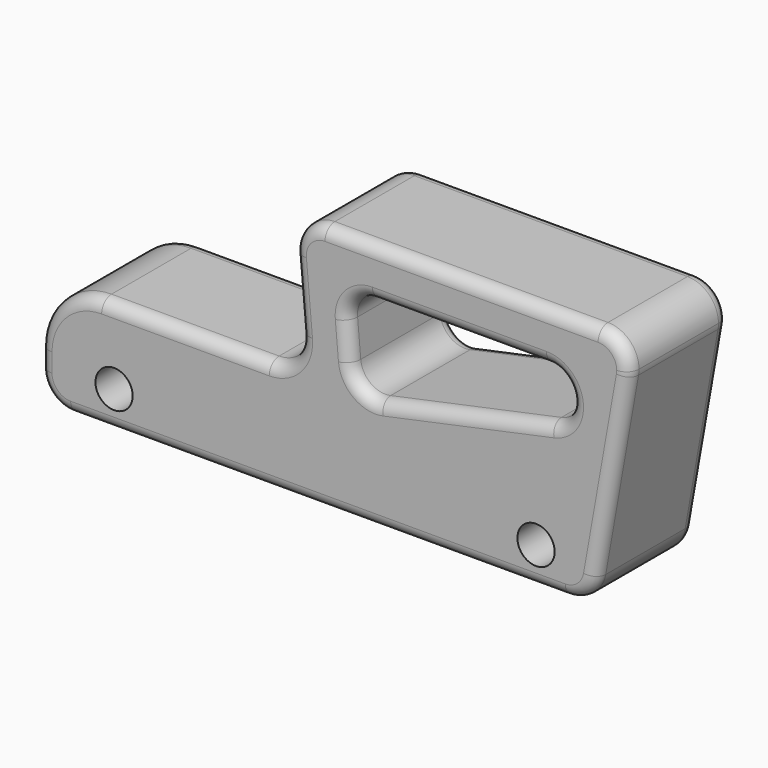
from build123d import *

# Parameters (mm, degrees)
F1_DEPTH = 20
F2_R     = 2
F4_D     = 6


with BuildPart() as f1:
    # F0 (on Front) → F1 (new body)
    with BuildSketch(Plane.XZ):
        with BuildLine():
            ThreePointArc((0, 5), (1.4644660941, 1.4644660941), (5, 0))
            Line((5, 0), (84.7101905787, 0))
            ThreePointArc((84.7101905787, 0), (87.9241286272, 1.1697777844), (89.6342293438, 4.1317591117))
            Line((89.6342293438, 4.1317591117), (94.9240387651, 34.1317591117))
            ThreePointArc((94.9240387651, 34.1317591117), (94.9809734905, 34.5642212863), (95, 35))
            ThreePointArc((95, 35), (93.5355339059, 38.5355339059), (90, 40))
            Line((90, 40), (45.9883344131, 40))
            ThreePointArc((45.9883344131, 40), (42.3019477291, 38.3779510381), (41.0073609227, 34.5642212863))
            Line((41.0073609227, 34.5642212863), (41.9809734905, 23.4357787137))
            ThreePointArc((41.9809734905, 23.4357787137), (40.6863866841, 19.6220489619), (37, 18))
            Line((37, 18), (10, 18))
            ThreePointArc((10, 18), (2.9289321881, 15.0710678119), (0, 8))
            Line((0, 8), (0, 5))
        make_face()
        with BuildLine():
            ThreePointArc((49.6427151282, 27.651377029), (50.6783845734, 30.7023608305), (53.6274939206, 32))
            Line((53.6274939206, 32), (81.6577248518, 32))
            ThreePointArc((81.6577248518, 32), (85.6358124333, 28.4181138531), (82.4893716151, 24.0874095971))
            Line((82.4893716151, 24.0874095971), (54.9708824747, 18.238174163))
            ThreePointArc((54.9708824747, 18.238174163), (51.7599445644, 18.9353371235), (50.154456919, 21.802141595))
            Line((50.154456919, 21.802141595), (49.6427151282, 27.651377029))
        make_face(mode=Mode.SUBTRACT)
    extrude(amount=F1_DEPTH)

    # F2
    f2_edges = [f1.edges().sort_by_distance(p)[0] for p in [
        (67.642609, -20, 32),
        (41.494167, -20, 29),
        (68.730127, 0, 21.162792),
        (41.494167, 0, 29),
    ]]
    fillet(f2_edges, radius=F2_R)

    # F4 (through all)
    with Locations(Plane(origin=(0, 0, 0), x_dir=(1, 0, 0), z_dir=(0, 1, 0))):
        with Locations((12, -6), (80, -6)):
            Hole(F4_D / 2)


solid = f1.part
